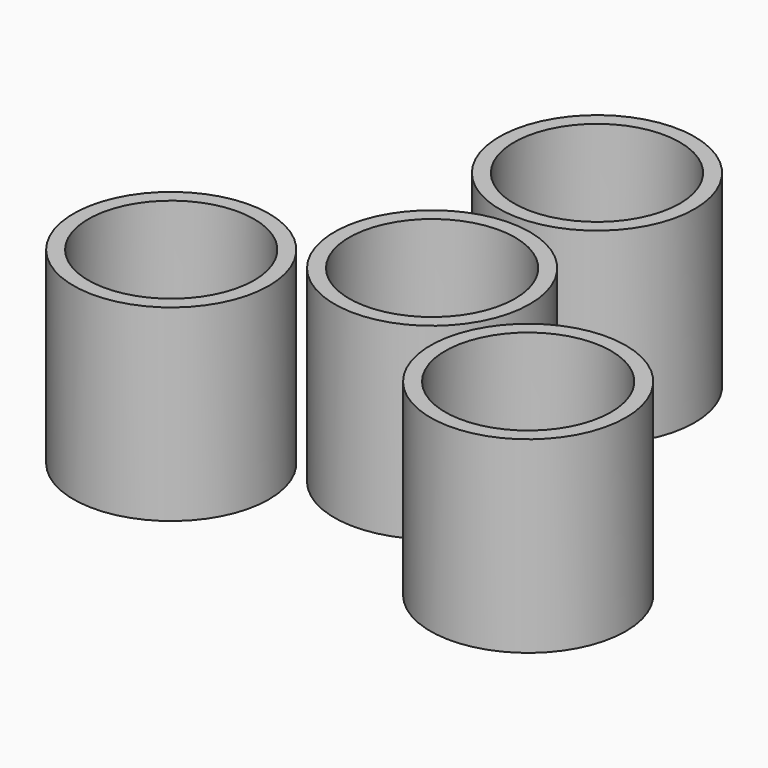
from build123d import *

# Parameters (mm, degrees)
F0_R     = 13.2
F0_R_2   = 11.2
F1_DEPTH = 25.4


with BuildPart() as f1:
    # F0 (on Top) → F1 (new body)
    with BuildSketch(Plane.XY):
        Circle(F0_R)
        Circle(F0_R_2, mode=Mode.SUBTRACT)
        with Locations((0, 27.833937)):
            Circle(F0_R)
        with Locations((0, 27.833937)):
            Circle(F0_R_2, mode=Mode.SUBTRACT)
        with Locations((-24.104896, -13.916968)):
            Circle(F0_R)
        with Locations((-24.104896, -13.916968)):
            Circle(F0_R_2, mode=Mode.SUBTRACT)
        with Locations((24.104896, -13.916968)):
            Circle(F0_R)
        with Locations((24.104896, -13.916968)):
            Circle(F0_R_2, mode=Mode.SUBTRACT)
    extrude(amount=F1_DEPTH)


solid = f1.part
